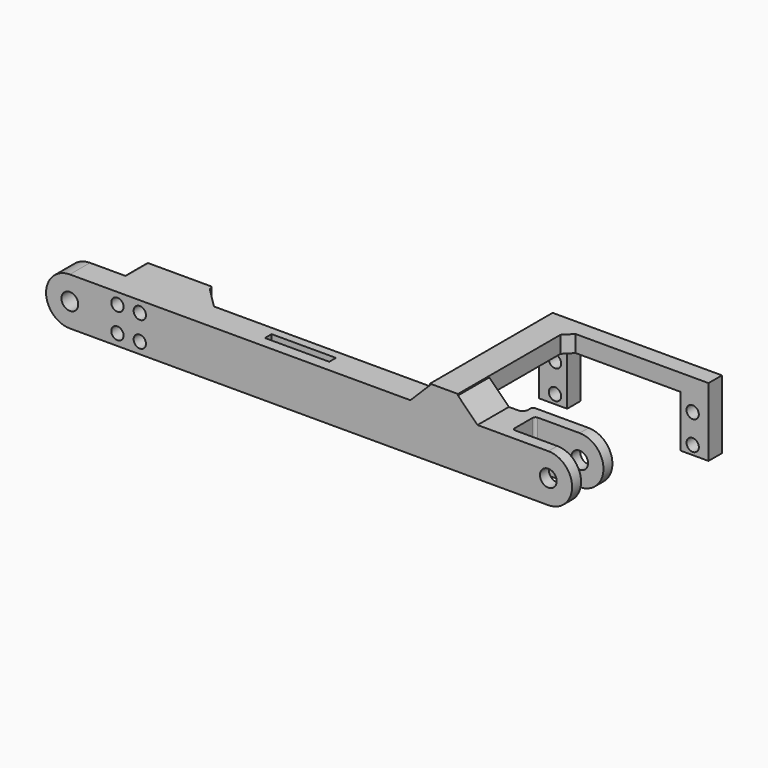
from build123d import *

# Parameters (mm, degrees)
PAD044_DEPTH           = 10
PAD045_DEPTH           = 6
PAD049_DEPTH           = 14
CYLINDER015_R          = 2.2
CYLINDER015_DEPTH      = 26
CYLINDER015_ROLL_ANGLE = -90
ARRAY004_X_COUNT       = 2
ARRAY004_X_PITCH       = 8
ARRAY004_Z_COUNT       = 2
ARRAY004_Z_PITCH       = 9
BOX022_W               = 24
BOX022_H               = 10
BOX022_DEPTH           = 17
SKETCH016_R            = 3
PAD016_DEPTH           = 9
BOX023_W               = 35
BOX023_H               = 15
BOX023_DEPTH           = 20
BOX014_W               = 23
BOX014_H               = 3
BOX014_DEPTH           = 20
SKETCH_R               = 3
PAD_DEPTH              = 4
SKETCH001_R            = 3
PAD001_DEPTH           = 4
BOX010_W               = 20
BOX010_H               = 17
BOX010_DEPTH           = 10
FILLET001_R            = 1
FILLET001_ROLL_ANGLE   = 90
FILLET002_1_R          = 2
FILLET002_2_R          = 1
BOX_W                  = 167
BOX_H                  = 10
BOX_DEPTH              = 17
CYLINDER_R             = 2.2
CYLINDER_DEPTH         = 18
CYLINDER_ROLL_ANGLE    = -90
ARRAY_X_COUNT          = 2
ARRAY_X_PITCH          = 49.2
ARRAY_Z_COUNT          = 2
ARRAY_Z_PITCH          = 10.3
PAD008_DEPTH           = 6
PAD007_DEPTH           = 10
CHAMFER001_SIZE        = 3
FILLET014_R            = 1
CHAMFER006_SIZE        = 7.5
PAD043_DEPTH           = 10


with BuildPart() as obj1:
    # Sketch044 → Pad044 (new body)
    with BuildSketch(Plane(origin=(142.7, 11, 18.5), x_dir=(0, 0, -1), z_dir=(1, 0, 0))):
        Polygon((0, 0), (0, 3), (3, 0), align=None)
    extrude(amount=PAD044_DEPTH)


with BuildPart() as obj2:
    # Sketch045 → Pad045 (new body)
    with BuildSketch(Plane(origin=(152.7, 45.8, 18.5), x_dir=(0, -1, 0), z_dir=(0, 0, 1))):
        Polygon((0, 0), (0, 3), (3, 0), align=None)
    extrude(amount=PAD045_DEPTH)


with BuildPart() as obj3:
    # Sketch042 → Pad049 (new body)
    with BuildSketch(Plane(origin=(152.7, 11, 17), x_dir=(1, 0, 0), z_dir=(0, -1, 0))):
        Polygon((0, 0), (0, 7), (7, 0), align=None)
    extrude(amount=PAD049_DEPTH)


with BuildPart() as obj4:
    # Cylinder015 → Cylinder015 (new body)
    with BuildSketch(Plane.XY):
        Circle(CYLINDER015_R)
    extrude(amount=CYLINDER015_DEPTH)


with BuildPart() as obj4_1:
    # Cylinder015 roll: moved
    add(obj4.part.rotate(Axis((0, 0, 0), (1, 0, 0)), CYLINDER015_ROLL_ANGLE))


with BuildPart() as obj4_2:
    # Cylinder015 placement: moved
    add(obj4_1.part.moved(Location((202, 0, 4))))

    # Array004 X: obj4_2


with BuildPart() as obj4_3:
    add(obj4_2.part)
    with Locations(*[(i * ARRAY004_X_PITCH, 0, 0) for i in range(1, ARRAY004_X_COUNT)]):
        add(obj4_2.part)

    # Array004 Z: obj4_2


with BuildPart() as obj4_4:
    add(obj4_3.part)
    with Locations(*[(0, 0, i * ARRAY004_Z_PITCH) for i in range(1, ARRAY004_Z_COUNT)]):
        add(obj4_3.part)


with BuildPart() as obj4_5:
    # Array004 placement: moved
    add(obj4_4.part.moved(Location((-171, -5, 0))))


with BuildPart() as obj5:
    # Box022 → Box022 (new body)
    with BuildSketch(Plane(origin=(26, 6, 0), x_dir=(1, 0, 0), z_dir=(0, 0, 1))):
        with Locations((12, 5)):
            Rectangle(BOX022_W, BOX022_H)
    extrude(amount=BOX022_DEPTH)


with BuildPart() as obj6:
    # Sketch016 → Pad016 (new body)
    with BuildSketch(Plane(origin=(50, 6, 0), x_dir=(1, 0, 0), z_dir=(0, -1, 0))):
        with BuildLine():
            Line((0, 17), (-36, 17))
            ThreePointArc((-36, 17), (-44.500015, 8.5), (-36, 0))
            Line((-36, 0), (0, 0))
            Line((0, 0), (0, 17))
        make_face()
        with Locations((-36.000015, 8.5)):
            Circle(SKETCH016_R, mode=Mode.SUBTRACT)
    extrude(amount=PAD016_DEPTH)


with BuildPart() as obj7:
    # Box023 → Box023 (new body)
    with BuildSketch(Plane(origin=(-2, -5, 0), x_dir=(1, 0, 0), z_dir=(0, 0, 1))):
        with Locations((17.5, 7.5)):
            Rectangle(BOX023_W, BOX023_H)
    extrude(amount=BOX023_DEPTH)


with BuildPart() as obj8:
    # Box014 → Box014 (new body)
    with BuildSketch(Plane(origin=(80.5, 1, 0), x_dir=(1, 0, 0), z_dir=(0, 0, 1))):
        with Locations((11.5, 1.5)):
            Rectangle(BOX014_W, BOX014_H)
    extrude(amount=BOX014_DEPTH)


with BuildPart() as obj9:
    # Sketch → Pad (new body)
    with BuildSketch(Plane.XY):
        with BuildLine():
            Line((0, 17), (20, 17))
            ThreePointArc((20, 0), (28.500019, 8.5), (20, 17))
            Line((20, 0), (0, 0))
            Line((0, 0), (0, 17))
        make_face()
        with Locations((20.000019, 8.5)):
            Circle(SKETCH_R, mode=Mode.SUBTRACT)
    extrude(amount=PAD_DEPTH)


with BuildPart() as obj10:
    # Sketch001 → Pad001 (new body)
    with BuildSketch(Plane.XY.offset(14)):
        with BuildLine():
            Line((0, 17), (20, 17))
            ThreePointArc((20, 0), (28.500019, 8.5), (20, 17))
            Line((20, 0), (0, 0))
            Line((0, 0), (0, 17))
        make_face()
        with Locations((20.000019, 8.5)):
            Circle(SKETCH001_R, mode=Mode.SUBTRACT)
    extrude(amount=PAD001_DEPTH)


with BuildPart() as obj11:
    # Box010 → Box010 (new body)
    with BuildSketch(Plane(origin=(-16, 0, 4), x_dir=(1, 0, 0), z_dir=(0, 0, 1))):
        with Locations((10, 8.5)):
            Rectangle(BOX010_W, BOX010_H)
    extrude(amount=BOX010_DEPTH)

    # Fusion006: union obj9, obj10
    add(obj9.part)
    add(obj10.part)

    # Fillet001
    fillet001_edges = [obj11.edges().sort_by_distance(p)[0] for p in [
        (0, 8.5, 18),
        (-16, 0, 9),
        (-16, 17, 9),
        (0, 8.5, 0),
    ]]
    fillet(fillet001_edges, radius=FILLET001_R)


with BuildPart() as obj11_1:
    # Fillet001 roll: moved
    add(obj11.part.rotate(Axis((0, 0, 0), (1, 0, 0)), FILLET001_ROLL_ANGLE))


with BuildPart() as obj11_2:
    # Fillet001 placement: moved
    add(obj11_1.part.moved(Location((16, 15, 0))))

    # Fillet002 1
    fillet002_1_edges = [obj11_2.edges().sort_by_distance(p)[0] for p in [
        (16, 1, 8.5),
        (16, 11, 8.5),
    ]]
    fillet(fillet002_1_edges, radius=FILLET002_1_R)

    # Fillet002 2
    fillet002_2_edges = [obj11_2.edges().sort_by_distance(p)[0] for p in [
        (20, 1, 8.5),
        (20, 11, 8.5),
    ]]
    fillet(fillet002_2_edges, radius=FILLET002_2_R)


with BuildPart() as obj11_3:
    # Fillet002 placement: moved
    add(obj11_2.part.moved(Location((149, 0, 0))))


with BuildPart() as obj12:
    # Box → Box (new body)
    with BuildSketch(Plane(origin=(0, -3, 0), x_dir=(1, 0, 0), z_dir=(0, 0, 1))):
        with Locations((83.5, 5)):
            Rectangle(BOX_W, BOX_H)
    extrude(amount=BOX_DEPTH)

    # Fusion007: union obj11
    add(obj11_3.part)

    # Cut005: cut obj8
    add(obj8.part, mode=Mode.SUBTRACT)


with BuildPart() as obj13:
    # Cylinder → Cylinder (new body)
    with BuildSketch(Plane.XY):
        Circle(CYLINDER_R)
    extrude(amount=CYLINDER_DEPTH)


with BuildPart() as obj13_1:
    # Cylinder roll: moved
    add(obj13.part.rotate(Axis((0, 0, 0), (1, 0, 0)), CYLINDER_ROLL_ANGLE))


with BuildPart() as obj13_2:
    # Cylinder placement: moved
    add(obj13_1.part.moved(Location((150.075, 41, 13.5))))

    # Array X: obj13_2


with BuildPart() as obj13_3:
    add(obj13_2.part)
    with Locations(*[(i * ARRAY_X_PITCH, 0, 0) for i in range(1, ARRAY_X_COUNT)]):
        add(obj13_2.part)

    # Array Z: obj13_2


with BuildPart() as obj13_4:
    add(obj13_3.part)
    with Locations(*[(0, 0, -i * ARRAY_Z_PITCH) for i in range(1, ARRAY_Z_COUNT)]):
        add(obj13_3.part)


with BuildPart() as obj14:
    # Sketch008 → Pad008 (new body)
    with BuildSketch(Plane(origin=(10, 54.8, 0), x_dir=(1, 0, 0), z_dir=(0, -1, 0))):
        Polygon((0, 18.5), (0, 24.5), (50.5, 24.5), (50.5, 0), (40.5, 0), (40.5, 18.5), align=None)
    extrude(amount=PAD008_DEPTH)


with BuildPart() as obj15:
    # Sketch007 → Pad007 (new body)
    with BuildSketch(Plane.YZ):
        Polygon((14, 0), (0, 0), (0, 24.5), (54.8, 24.5), (54.8, 0), (48.8, 0), (48.8, 18.5), (14, 18.5), align=None)
    extrude(amount=PAD007_DEPTH)

    # Fusion009003004: union obj14
    add(obj14.part)


with BuildPart() as obj15_1:
    # Fusion009003004 placement: moved
    add(obj15.part.moved(Location((144.425, -3, 0))))

    # Cut: cut obj13
    add(obj13_4.part, mode=Mode.SUBTRACT)


with BuildPart() as obj15_2:
    # Cut placement: moved
    add(obj15_1.part.moved(Location((-1.725, 0, 0))))

    # Fusion009003007: union obj12
    add(obj12.part)

    # Chamfer001
    chamfer001_edges = [obj15_2.edges().sort_by_distance(p)[0] for p in [
        (142.7, 7, 8.5),
    ]]
    chamfer(chamfer001_edges, length=CHAMFER001_SIZE)

    # Cut012: cut obj7
    add(obj7.part, mode=Mode.SUBTRACT)

    # Fusion009003016: union obj6
    add(obj6.part)

    # Fusion009003017: union obj5
    add(obj5.part)

    # Cut013: cut obj4
    add(obj4_5.part, mode=Mode.SUBTRACT)

    # Fillet014
    fillet014_edges = [obj15_2.edges().sort_by_distance(p)[0] for p in [
        (50, 16, 8.5),
        (26, 11, 0),
        (26, 11, 17),
    ]]
    fillet(fillet014_edges, radius=FILLET014_R)

    # Chamfer006
    chamfer006_edges = [obj15_2.edges().sort_by_distance(p)[0] for p in [
        (50, 7, 8.5),
    ]]
    chamfer(chamfer006_edges, length=CHAMFER006_SIZE)


with BuildPart() as femur_izquierdo_full:
    # Sketch043 → Pad043 (new body)
    with BuildSketch(Plane(origin=(142.7, -3, 17), x_dir=(-1, 0, 0), z_dir=(0, 1, 0))):
        Polygon((0, 0), (0, 7), (7, 0), align=None)
    extrude(amount=PAD043_DEPTH)

    # Fusion009003044: union obj1, obj2, obj3, obj15
    add(obj1.part)
    add(obj2.part)
    add(obj3.part)
    add(obj15_2.part)


solid = femur_izquierdo_full.part
